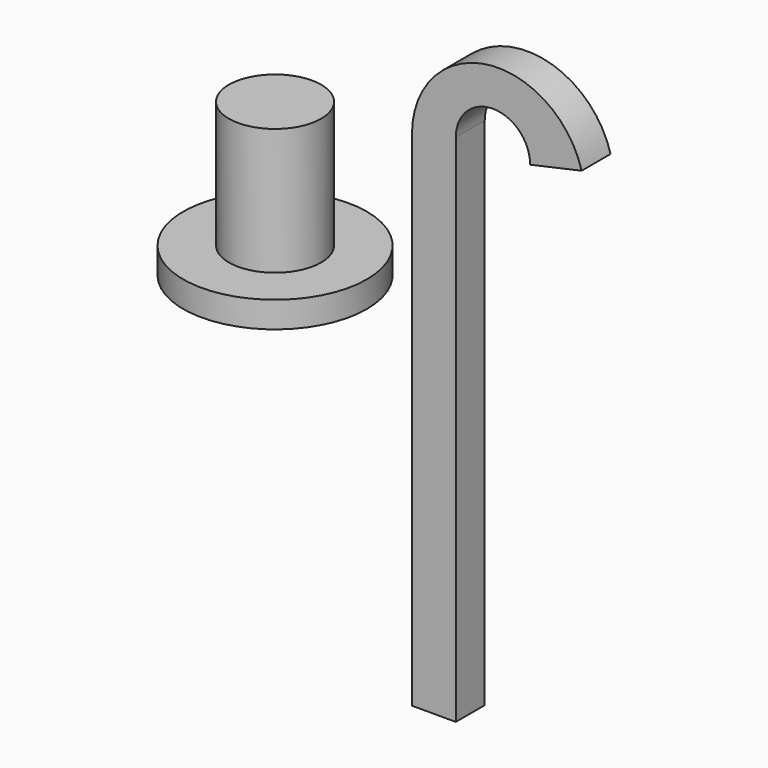
from build123d import *

# Parameters (mm, degrees)
F1_DEPTH = 4.572
F2_R     = 11.607807
F3_DEPTH = 3.302
F4_R     = 5.831545
F5_DEPTH = 16.002


with BuildPart() as f1:
    # F0 (on Front) → F1 (new body)
    with BuildSketch(Plane.XZ):
        with BuildLine():
            Line((5.663358, 16.267093), (5.663358, -10.242244))
            Line((5.663358, -10.242244), (5.663358, -30.003751))
            Line((5.663358, -30.003751), (11.206221, -30.003751))
            Line((11.206221, -30.003751), (11.206221, -10.483238))
            Line((11.206221, -10.483238), (11.206221, 16.0261))
            Line((11.206221, 16.0261), (11.206221, 35.064623))
            ThreePointArc((11.206221, 35.064623), (15.905604, 39.764006), (20.604987, 35.064623))
            Line((20.604987, 35.064623), (27.111825, 36.510587))
            ThreePointArc((27.111825, 36.510587), (15.123504, 44.439934), (5.663358, 33.618659))
            Line((5.663358, 33.618659), (5.663358, 16.267093))
        make_face()
    extrude(amount=F1_DEPTH)


with BuildPart() as f3:
    # F2 (on Top) → F3 (new body)
    with BuildSketch(Plane.XY):
        with Locations((-26.388841, 13.857153)):
            Circle(F2_R)
    extrude(amount=F3_DEPTH)

    # F4 (on face) → F5 (join)
    with BuildSketch(Plane.XY.offset(3.302)):
        with Locations((-26.388841, 13.857153)):
            Circle(F4_R)
    extrude(amount=F5_DEPTH)


solid = Compound([f1.part, f3.part])
